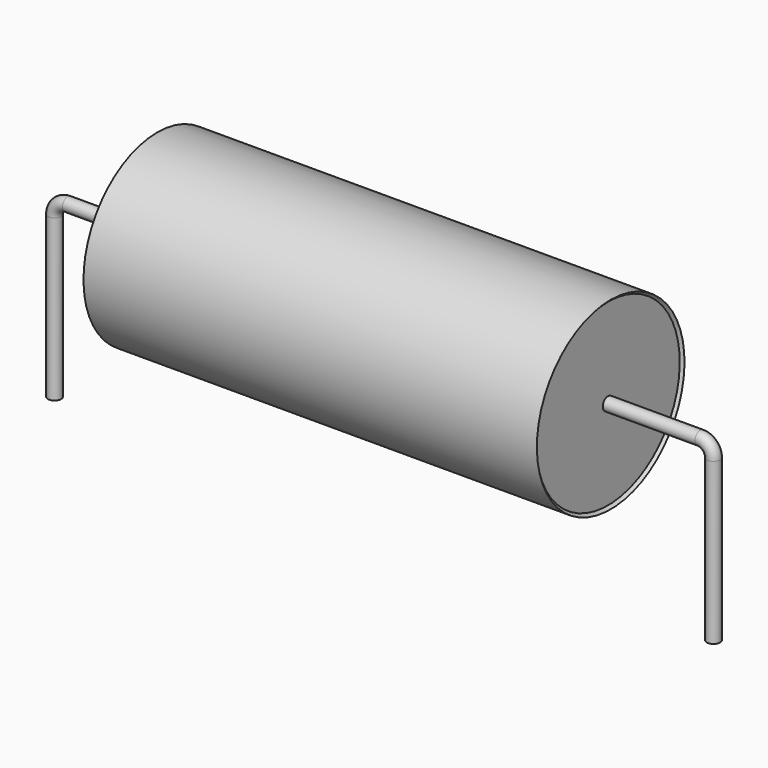
from build123d import *

# Parameters (mm, degrees)
SKETCH_R = 0.25


with BuildPart() as sweep_body:
    # Sweep: sweep along a path in Sketch001
    with BuildLine(Plane.XZ) as sweep_path:
        Line((0, -3), (0, 3.1))
        ThreePointArc((0, 3.1), (0.146443, 3.45355), (0.49999, 3.6))
        Line((0.49999, 3.6), (24.5, 3.6))
        ThreePointArc((24.5, 3.6), (24.853553, 3.453553), (25, 3.1))
        Line((25, 3.1), (25, -3))
    # Sketch → Sweep (sweep)
    with BuildSketch(Plane.XY.offset(-2)):
        Circle(SKETCH_R)
    sweep(path=sweep_path.line)


with BuildPart() as revolution:
    # Sketch002 → Revolution (revolve)
    with BuildSketch(Plane.XZ):
        Polygon((3.9, 7.1), (21.1, 7.1), (21, 7), (21, 3.6), (4, 3.6), (4, 7), align=None)
    revolve(axis=Axis((7.611803, 0, 3.6), (1, 0, 0)))


solid = Compound([sweep_body.part, revolution.part])
